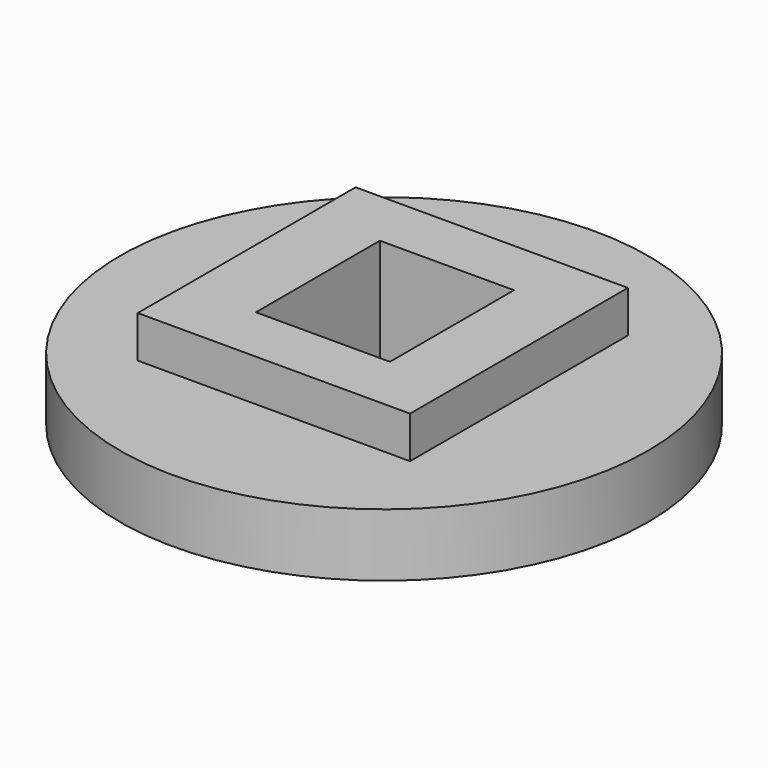
from build123d import *

# Parameters (mm, degrees)
CYLINDER003_R     = 12.6
CYLINDER003_DEPTH = 17
BOX_W             = 6.4
BOX_H             = 7.4
BOX_DEPTH         = 10
CYLINDER002_R     = 15.4
CYLINDER002_DEPTH = 3
CYLINDER001_R     = 14.4
CYLINDER001_DEPTH = 12
CYLINDER_R        = 17.4
CYLINDER_DEPTH    = 10
BOX001_W          = 13
BOX001_H          = 13
BOX001_DEPTH      = 5


with BuildPart() as cylinder003:
    # Cylinder003 → Cylinder003 (new body)
    with BuildSketch(Plane(origin=(3.4, 3.4, -6), x_dir=(1, 0, 0), z_dir=(0, 0, 1))):
        Circle(CYLINDER003_R)
    extrude(amount=CYLINDER003_DEPTH)


with BuildPart() as cube:
    # Box → Box (new body)
    with BuildSketch(Plane.XY):
        with Locations((3.2, 3.7)):
            Rectangle(BOX_W, BOX_H)
    extrude(amount=BOX_DEPTH)


with BuildPart() as cylinder002:
    # Cylinder002 → Cylinder002 (new body)
    with BuildSketch(Plane(origin=(3.2, 3.5, 0), x_dir=(1, 0, 0), z_dir=(0, 0, 1))):
        Circle(CYLINDER002_R)
    extrude(amount=CYLINDER002_DEPTH)


with BuildPart() as cylinder001:
    # Cylinder001 → Cylinder001 (new body)
    with BuildSketch(Plane(origin=(3.2, 3.5, 0), x_dir=(1, 0, 0), z_dir=(0, 0, 1))):
        Circle(CYLINDER001_R)
    extrude(amount=CYLINDER001_DEPTH)


with BuildPart() as cut:
    # Cylinder → Cylinder (new body)
    with BuildSketch(Plane(origin=(3.2, 3.5, 0), x_dir=(1, 0, 0), z_dir=(0, 0, 1))):
        Circle(CYLINDER_R)
    extrude(amount=CYLINDER_DEPTH)

    # Cut: cut Cylinder001
    add(cylinder001.part, mode=Mode.SUBTRACT)


with BuildPart() as common:
    # Box001 → Box001 (new body)
    with BuildSketch(Plane(origin=(-3.4, -2.8, 0), x_dir=(1, 0, 0), z_dir=(0, 0, 1))):
        with Locations((6.5, 6.5)):
            Rectangle(BOX001_W, BOX001_H)
    extrude(amount=BOX001_DEPTH)

    # Fusion: union Cylinder002, Cut
    add(cylinder002.part)
    add(cut.part)

    # Cut001: cut Cube
    add(cube.part, mode=Mode.SUBTRACT)

    # Common: intersect Cylinder003
    add(cylinder003.part, mode=Mode.INTERSECT)


solid = common.part
